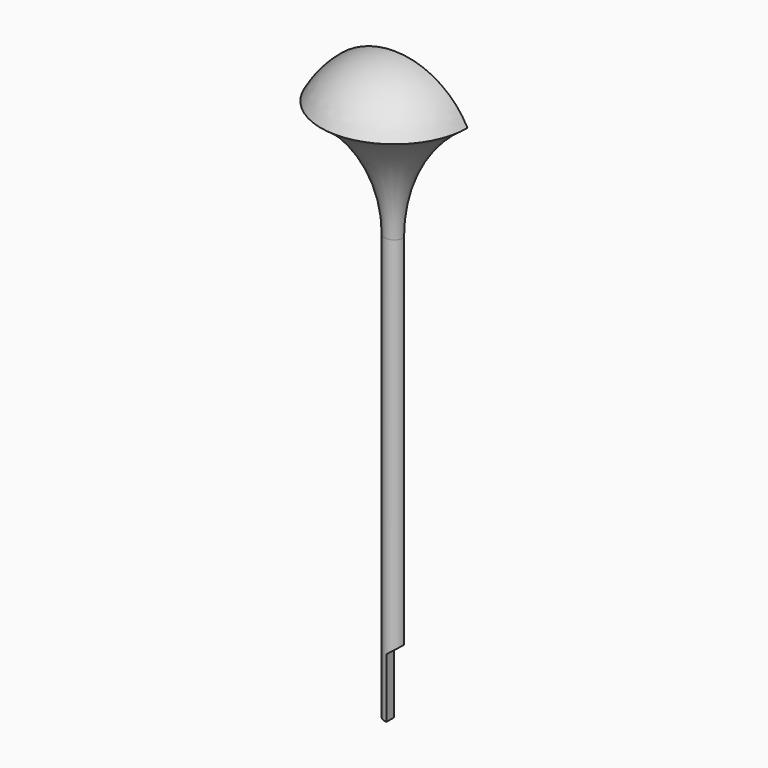
from build123d import *

# Parameters (mm, degrees)
BOX_W     = 50
BOX_H     = 50
BOX_DEPTH = 200
PAD_DEPTH = 50


with BuildPart() as cubo:
    # Box → Box (new body)
    with BuildSketch(Plane(origin=(-20, 0, -20), x_dir=(1, 0, 0), z_dir=(0, 0, 1))):
        with Locations((25, 25)):
            Rectangle(BOX_W, BOX_H)
    extrude(amount=BOX_DEPTH)


with BuildPart() as pad:
    # Sketch001 → Pad (new body)
    with BuildSketch(Plane.XZ.offset(-20)):
        Polygon((0, -10), (0, 12.2), (50, 50), (50, -10), align=None)
    extrude(amount=PAD_DEPTH)


with BuildPart() as cut001:
    # Sketch → Revolution (revolve)
    with BuildSketch(Plane.XZ):
        with BuildLine():
            ThreePointArc((15, 111), (8.746428, 117.57738), (0, 120))
            Line((0, 0), (0, 120))
            Line((2, 0), (0, 0))
            Line((2, 87), (2, 0))
            ThreePointArc((15, 111), (5.458749, 100.647344), (2, 87))
        make_face()
    revolve(axis=Axis((0, 0, 0), (0, 0, 1)))

    # Cut: cut Pad
    add(pad.part, mode=Mode.SUBTRACT)

    # Cut001: cut Cubo
    add(cubo.part, mode=Mode.SUBTRACT)


solid = cut001.part
